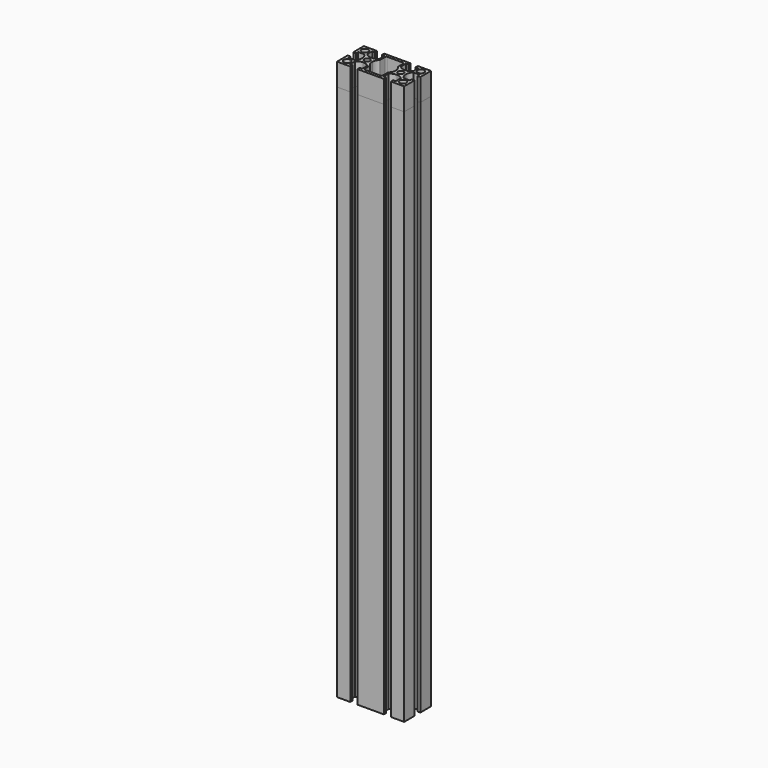
from build123d import *

# Parameters (mm, degrees)
F0_R     = 3
F0_R_2   = 2.5
F1_DEPTH = 500
F2_DEPTH = 480


with BuildPart() as f1:
    # F0 (on Top) → F1 (new body)
    with BuildSketch(Plane.XY):
        with BuildLine():
            Line((-3.15, 15), (-15, 15))
            Line((-15, 15), (-15, 3.15))
            Line((-15, 3.15), (-12.5, 3.15))
            Line((-12.5, 3.15), (-12.5, 5.5))
            Line((-12.5, 5.5), (-6.90098, 5.5))
            ThreePointArc((-6.90098, 5.5), (-5.126404, 3.000613), (-4.5, 0))
            ThreePointArc((-4.5, 0), (-5.126404, -3.000613), (-6.90098, -5.5))
            Line((-6.90098, -5.5), (-12.5, -5.5))
            Line((-12.5, -5.5), (-12.5, -3.15))
            Line((-12.5, -3.15), (-15, -3.15))
            Line((-15, -3.15), (-15, -15))
            Line((-15, -15), (-3.15, -15))
            Line((-3.15, -15), (-3.15, -12.5))
            Line((-3.15, -12.5), (-5.5, -12.5))
            Line((-5.5, -12.5), (-5.5, -6.90098))
            ThreePointArc((-5.5, -6.90098), (-3.000613, -5.126404), (0, -4.5))
            ThreePointArc((0, -4.5), (3.000613, -5.126404), (5.5, -6.90098))
            Line((5.5, -6.90098), (5.5, -12.5))
            Line((5.5, -12.5), (3.15, -12.5))
            Line((3.15, -12.5), (3.15, -15))
            Line((3.15, -15), (26.85, -15))
            Line((26.85, -15), (26.85, -12.5))
            Line((26.85, -12.5), (24.5, -12.5))
            Line((24.5, -12.5), (24.5, -6.90098))
            ThreePointArc((24.5, -6.90098), (26.999387, -5.126404), (30, -4.5))
            ThreePointArc((30, -4.5), (33.000613, -5.126404), (35.5, -6.90098))
            Line((35.5, -6.90098), (35.5, -12.5))
            Line((35.5, -12.5), (33.15, -12.5))
            Line((33.15, -12.5), (33.15, -15))
            Line((33.15, -15), (45, -15))
            Line((45, -15), (45, -3.15))
            Line((45, -3.15), (42.5, -3.15))
            Line((42.5, -3.15), (42.5, -5.5))
            Line((42.5, -5.5), (36.90098, -5.5))
            ThreePointArc((36.90098, -5.5), (35.126404, -3.000613), (34.5, 0))
            ThreePointArc((34.5, 0), (35.126404, 3.000613), (36.90098, 5.5))
            Line((36.90098, 5.5), (42.5, 5.5))
            Line((42.5, 5.5), (42.5, 3.15))
            Line((42.5, 3.15), (45, 3.15))
            Line((45, 3.15), (45, 15))
            Line((45, 15), (33.15, 15))
            Line((33.15, 15), (33.15, 12.5))
            Line((33.15, 12.5), (35.5, 12.5))
            Line((35.5, 12.5), (35.5, 6.90098))
            ThreePointArc((35.5, 6.90098), (33.000613, 5.126404), (30, 4.5))
            ThreePointArc((30, 4.5), (26.999387, 5.126404), (24.5, 6.90098))
            Line((24.5, 6.90098), (24.5, 12.5))
            Line((24.5, 12.5), (26.85, 12.5))
            Line((26.85, 12.5), (26.85, 15))
            Line((26.85, 15), (3.15, 15))
            Line((3.15, 15), (3.15, 12.5))
            Line((3.15, 12.5), (5.5, 12.5))
            Line((5.5, 12.5), (5.5, 6.90098))
            ThreePointArc((5.5, 6.90098), (3.000613, 5.126404), (0, 4.5))
            ThreePointArc((0, 4.5), (-3.000613, 5.126404), (-5.5, 6.90098))
            Line((-5.5, 6.90098), (-5.5, 12.5))
            Line((-5.5, 12.5), (-3.15, 12.5))
            Line((-3.15, 12.5), (-3.15, 15))
        make_face()
        with Locations((-10, -10)):
            Circle(F0_R, mode=Mode.SUBTRACT)
        with Locations((40, -10)):
            Circle(F0_R, mode=Mode.SUBTRACT)
        Circle(F0_R_2, mode=Mode.SUBTRACT)
        with Locations((-10, 10)):
            Circle(F0_R, mode=Mode.SUBTRACT)
        with BuildLine():
            ThreePointArc((6.618512, -5.223944), (5.049778, -2.818585), (4.5, 0))
            ThreePointArc((4.5, 0), (5.049778, 2.818585), (6.618512, 5.223944))
            ThreePointArc((6.618512, 5.223944), (6.827677, 5.544658), (6.90098, 5.92047))
            Line((6.90098, 5.92047), (6.90098, 11.5))
            ThreePointArc((6.90098, 11.5), (7.193874, 12.207107), (7.90098, 12.5))
            Line((7.90098, 12.5), (15, 12.5))
            Line((15, 12.5), (22.09902, 12.5))
            ThreePointArc((22.09902, 12.5), (22.806126, 12.207107), (23.09902, 11.5))
            Line((23.09902, 11.5), (23.09902, 5.92047))
            ThreePointArc((23.09902, 5.92047), (23.172323, 5.544658), (23.381488, 5.223944))
            ThreePointArc((23.381488, 5.223944), (24.950222, 2.818585), (25.5, 0))
            ThreePointArc((25.5, 0), (24.950222, -2.818585), (23.381488, -5.223944))
            ThreePointArc((23.381488, -5.223944), (23.172323, -5.544658), (23.09902, -5.92047))
            Line((23.09902, -5.92047), (23.09902, -11.5))
            ThreePointArc((23.09902, -11.5), (22.806126, -12.207107), (22.09902, -12.5))
            Line((22.09902, -12.5), (15, -12.5))
            Line((15, -12.5), (7.90098, -12.5))
            ThreePointArc((7.90098, -12.5), (7.193874, -12.207107), (6.90098, -11.5))
            Line((6.90098, -11.5), (6.90098, -5.92047))
            ThreePointArc((6.90098, -5.92047), (6.827677, -5.544658), (6.618512, -5.223944))
        make_face(mode=Mode.SUBTRACT)
        with Locations((30, 0)):
            Circle(F0_R_2, mode=Mode.SUBTRACT)
        with Locations((40, 10)):
            Circle(F0_R, mode=Mode.SUBTRACT)
    extrude(amount=F1_DEPTH)


with BuildPart() as f2:
    # F0 (on Top) → F2 (new body)
    with BuildSketch(Plane.XY):
        with BuildLine():
            Line((-3.15, 15), (-15, 15))
            Line((-15, 15), (-15, 3.15))
            Line((-15, 3.15), (-12.5, 3.15))
            Line((-12.5, 3.15), (-12.5, 5.5))
            Line((-12.5, 5.5), (-6.90098, 5.5))
            ThreePointArc((-6.90098, 5.5), (-5.126404, 3.000613), (-4.5, 0))
            ThreePointArc((-4.5, 0), (-5.126404, -3.000613), (-6.90098, -5.5))
            Line((-6.90098, -5.5), (-12.5, -5.5))
            Line((-12.5, -5.5), (-12.5, -3.15))
            Line((-12.5, -3.15), (-15, -3.15))
            Line((-15, -3.15), (-15, -15))
            Line((-15, -15), (-3.15, -15))
            Line((-3.15, -15), (-3.15, -12.5))
            Line((-3.15, -12.5), (-5.5, -12.5))
            Line((-5.5, -12.5), (-5.5, -6.90098))
            ThreePointArc((-5.5, -6.90098), (-3.000613, -5.126404), (0, -4.5))
            ThreePointArc((0, -4.5), (3.000613, -5.126404), (5.5, -6.90098))
            Line((5.5, -6.90098), (5.5, -12.5))
            Line((5.5, -12.5), (3.15, -12.5))
            Line((3.15, -12.5), (3.15, -15))
            Line((3.15, -15), (26.85, -15))
            Line((26.85, -15), (26.85, -12.5))
            Line((26.85, -12.5), (24.5, -12.5))
            Line((24.5, -12.5), (24.5, -6.90098))
            ThreePointArc((24.5, -6.90098), (26.999387, -5.126404), (30, -4.5))
            ThreePointArc((30, -4.5), (33.000613, -5.126404), (35.5, -6.90098))
            Line((35.5, -6.90098), (35.5, -12.5))
            Line((35.5, -12.5), (33.15, -12.5))
            Line((33.15, -12.5), (33.15, -15))
            Line((33.15, -15), (45, -15))
            Line((45, -15), (45, -3.15))
            Line((45, -3.15), (42.5, -3.15))
            Line((42.5, -3.15), (42.5, -5.5))
            Line((42.5, -5.5), (36.90098, -5.5))
            ThreePointArc((36.90098, -5.5), (35.126404, -3.000613), (34.5, 0))
            ThreePointArc((34.5, 0), (35.126404, 3.000613), (36.90098, 5.5))
            Line((36.90098, 5.5), (42.5, 5.5))
            Line((42.5, 5.5), (42.5, 3.15))
            Line((42.5, 3.15), (45, 3.15))
            Line((45, 3.15), (45, 15))
            Line((45, 15), (33.15, 15))
            Line((33.15, 15), (33.15, 12.5))
            Line((33.15, 12.5), (35.5, 12.5))
            Line((35.5, 12.5), (35.5, 6.90098))
            ThreePointArc((35.5, 6.90098), (33.000613, 5.126404), (30, 4.5))
            ThreePointArc((30, 4.5), (26.999387, 5.126404), (24.5, 6.90098))
            Line((24.5, 6.90098), (24.5, 12.5))
            Line((24.5, 12.5), (26.85, 12.5))
            Line((26.85, 12.5), (26.85, 15))
            Line((26.85, 15), (3.15, 15))
            Line((3.15, 15), (3.15, 12.5))
            Line((3.15, 12.5), (5.5, 12.5))
            Line((5.5, 12.5), (5.5, 6.90098))
            ThreePointArc((5.5, 6.90098), (3.000613, 5.126404), (0, 4.5))
            ThreePointArc((0, 4.5), (-3.000613, 5.126404), (-5.5, 6.90098))
            Line((-5.5, 6.90098), (-5.5, 12.5))
            Line((-5.5, 12.5), (-3.15, 12.5))
            Line((-3.15, 12.5), (-3.15, 15))
        make_face()
        with Locations((-10, -10)):
            Circle(F0_R, mode=Mode.SUBTRACT)
        with Locations((40, -10)):
            Circle(F0_R, mode=Mode.SUBTRACT)
        Circle(F0_R_2, mode=Mode.SUBTRACT)
        with Locations((-10, 10)):
            Circle(F0_R, mode=Mode.SUBTRACT)
        with BuildLine():
            ThreePointArc((6.618512, -5.223944), (5.049778, -2.818585), (4.5, 0))
            ThreePointArc((4.5, 0), (5.049778, 2.818585), (6.618512, 5.223944))
            ThreePointArc((6.618512, 5.223944), (6.827677, 5.544658), (6.90098, 5.92047))
            Line((6.90098, 5.92047), (6.90098, 11.5))
            ThreePointArc((6.90098, 11.5), (7.193874, 12.207107), (7.90098, 12.5))
            Line((7.90098, 12.5), (15, 12.5))
            Line((15, 12.5), (22.09902, 12.5))
            ThreePointArc((22.09902, 12.5), (22.806126, 12.207107), (23.09902, 11.5))
            Line((23.09902, 11.5), (23.09902, 5.92047))
            ThreePointArc((23.09902, 5.92047), (23.172323, 5.544658), (23.381488, 5.223944))
            ThreePointArc((23.381488, 5.223944), (24.950222, 2.818585), (25.5, 0))
            ThreePointArc((25.5, 0), (24.950222, -2.818585), (23.381488, -5.223944))
            ThreePointArc((23.381488, -5.223944), (23.172323, -5.544658), (23.09902, -5.92047))
            Line((23.09902, -5.92047), (23.09902, -11.5))
            ThreePointArc((23.09902, -11.5), (22.806126, -12.207107), (22.09902, -12.5))
            Line((22.09902, -12.5), (15, -12.5))
            Line((15, -12.5), (7.90098, -12.5))
            ThreePointArc((7.90098, -12.5), (7.193874, -12.207107), (6.90098, -11.5))
            Line((6.90098, -11.5), (6.90098, -5.92047))
            ThreePointArc((6.90098, -5.92047), (6.827677, -5.544658), (6.618512, -5.223944))
        make_face(mode=Mode.SUBTRACT)
        with Locations((30, 0)):
            Circle(F0_R_2, mode=Mode.SUBTRACT)
        with Locations((40, 10)):
            Circle(F0_R, mode=Mode.SUBTRACT)
    extrude(amount=F2_DEPTH)


solid = Compound([f1.part, f2.part])
